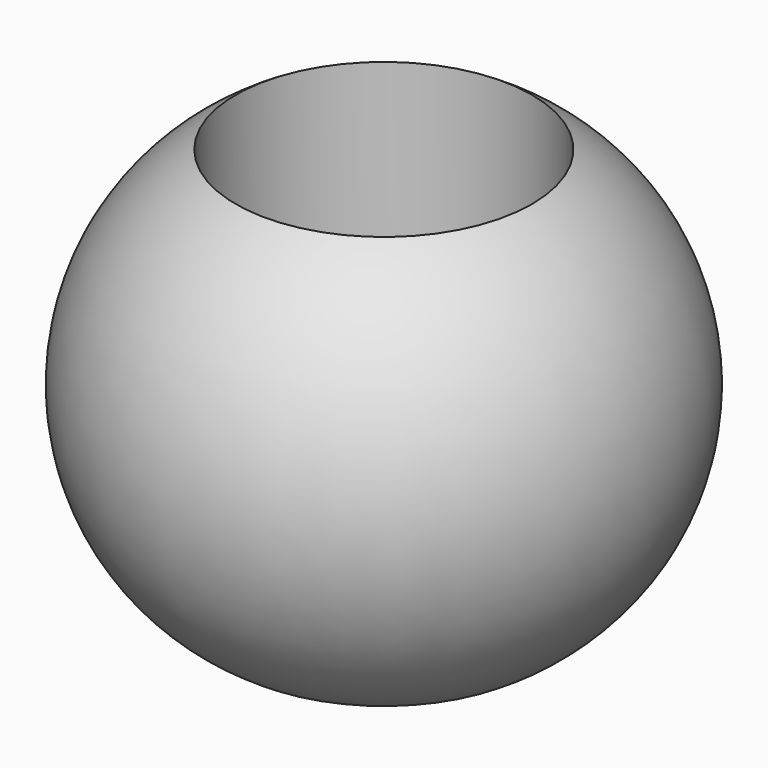
from build123d import *


with BuildPart() as f1:
    # F0 (on Top) → F1 (revolve)
    with BuildSketch(Plane.XY):
        with BuildLine():
            ThreePointArc((-13.5355256498, -35.7939489186), (33.9644506091, 10.226842016), (-13.5355256498, 56.2476329505))
            Line((-13.5355256498, 56.2476329505), (-13.5355256498, -35.7939489186))
        make_face()
    revolve(axis=Axis((-39.7042110562, 9.9260546267, 0), (0, -1, 0)))

    # F2: F1 across plane


with BuildPart() as f1_1:
    add(f1.part)
    add(f1.part.mirror(Plane.YZ))


with BuildPart() as f5:
    # F4 (on Front) → F5 (revolve)
    with BuildSketch(Plane.XZ):
        with BuildLine():
            ThreePointArc((-10.2268429473, -34.5907881856), (15.4390227312, 11.1292097718), (-10.2268429473, 56.8492077291))
            Line((-10.2268429473, 56.8492077291), (-10.2268429473, -34.5907881856))
        make_face()
    revolve(axis=Axis((-43.01289469, 0, 10.8284205198), (0, 0, -1)))

    # F6: F5 across plane


with BuildPart() as f5_1:
    add(f5.part)
    add(f5.part.mirror(Plane.XZ))

    # F7: F5 across plane


with BuildPart() as f5_2:
    add(f5_1.part)
    add(f5_1.part.mirror(Plane.XZ))


solid = f5_2.part
